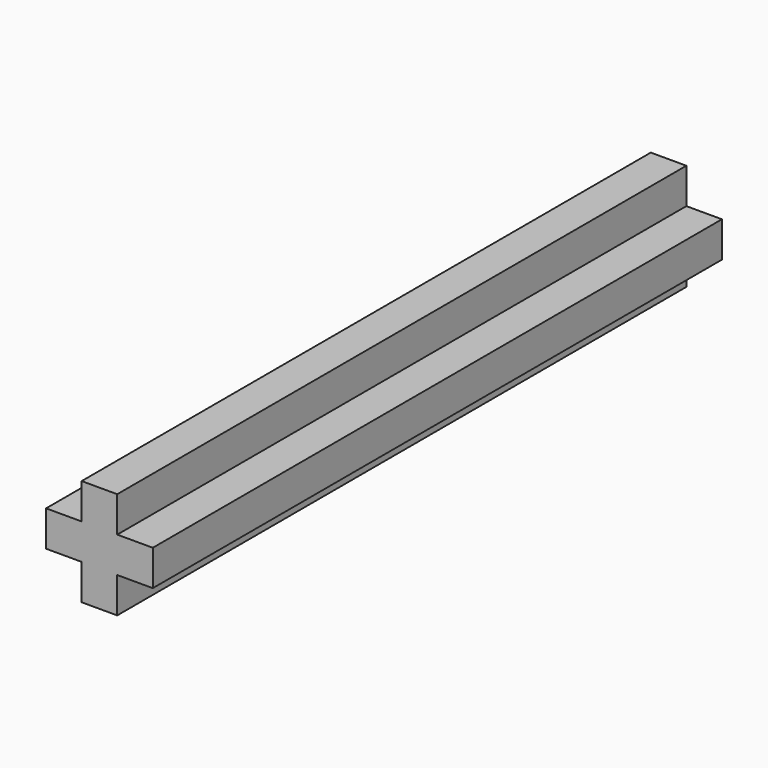
from build123d import *

# Parameters (mm, degrees)
F0_W     = 1.5875
F0_H     = 1.5875
F1_DEPTH = 31.75


with BuildPart() as f1:
    # F0 (on Front) → F1 (new body)
    with BuildSketch(Plane.XZ):
        with Locations((-1.5875, 0)):
            Rectangle(F0_W, F0_H)
        with Locations((0, 1.5875)):
            Rectangle(F0_W, F0_H)
        Rectangle(F0_W, F0_H)
        with Locations((1.5875, 0)):
            Rectangle(F0_W, F0_H)
        with Locations((0, -1.5875)):
            Rectangle(F0_W, F0_H)
    extrude(amount=F1_DEPTH)


solid = f1.part
